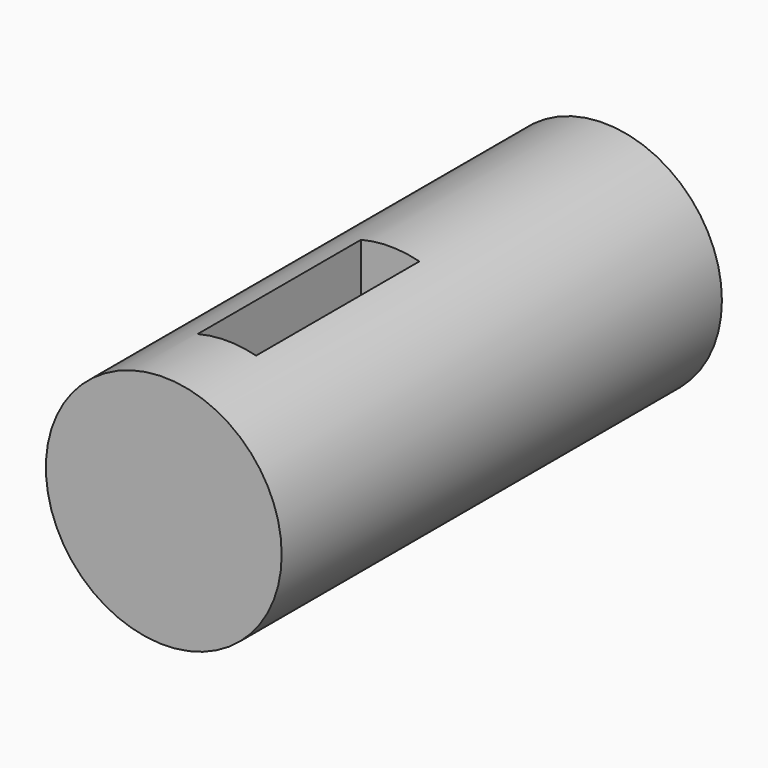
from build123d import *

# Parameters (mm, degrees)
F0_R     = 7.5
F1_DEPTH = 35
F2_W     = 3.71815
F2_H     = 12.979131
F3_DEPTH = 12.5
F4_R     = 2.5
F5_DEPTH = 25


with BuildPart() as f1:
    # F0 (on Front) → F1 (new body)
    with BuildSketch(Plane.XZ):
        Circle(F0_R)
    extrude(amount=F1_DEPTH)

    # F2 (on Top) → F3 (cut, symmetric)
    with BuildSketch(Plane.XY):
        with Locations((0, -23.489568)):
            Rectangle(F2_W, F2_H)
    extrude(amount=F3_DEPTH, both=True, mode=Mode.SUBTRACT)

    # F4 (on face) → F5 (cut)
    with BuildSketch(Plane(origin=(0, 0, 0), x_dir=(-1, 0, 0), z_dir=(0, 1, 0))):
        Circle(F4_R)
    extrude(amount=-F5_DEPTH, mode=Mode.SUBTRACT)


solid = f1.part
